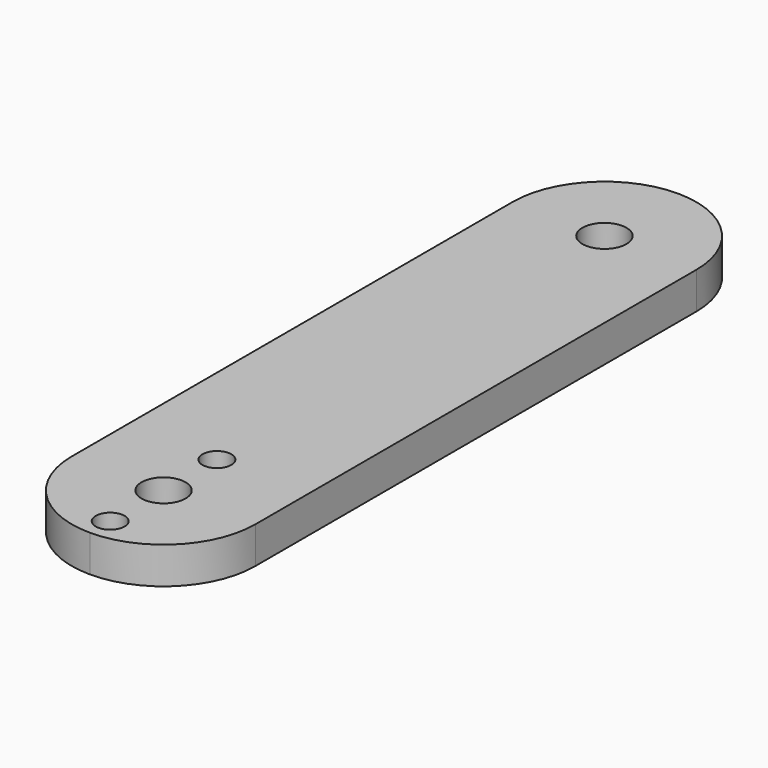
from build123d import *

# Parameters (mm, degrees)
F0_R     = 1
F0_R_2   = 1.524
F1_DEPTH = 2.54


with BuildPart() as f1:
    # F0 (on Top) → F1 (new body)
    with BuildSketch(Plane.XY):
        with BuildLine():
            Line((6.35, -19.05), (6.35, 19.05))
            ThreePointArc((6.35, 19.05), (4.490128, 23.540128), (0, 25.4))
            ThreePointArc((0, 25.4), (-4.490128, 23.540128), (-6.35, 19.05))
            Line((-6.35, 19.05), (-6.35, -19.05))
            ThreePointArc((-6.35, -19.05), (-4.490128, -23.540128), (0, -25.4))
            ThreePointArc((0, -25.4), (4.490128, -23.540128), (6.35, -19.05))
        make_face()
        with Locations((0, -23.6601)):
            Circle(F0_R, mode=Mode.SUBTRACT)
        with Locations((0, -19.05)):
            Circle(F0_R_2, mode=Mode.SUBTRACT)
        with Locations((0, -14.4399)):
            Circle(F0_R, mode=Mode.SUBTRACT)
        with Locations((0, 19.05)):
            Circle(F0_R_2, mode=Mode.SUBTRACT)
    extrude(amount=F1_DEPTH)


solid = f1.part
